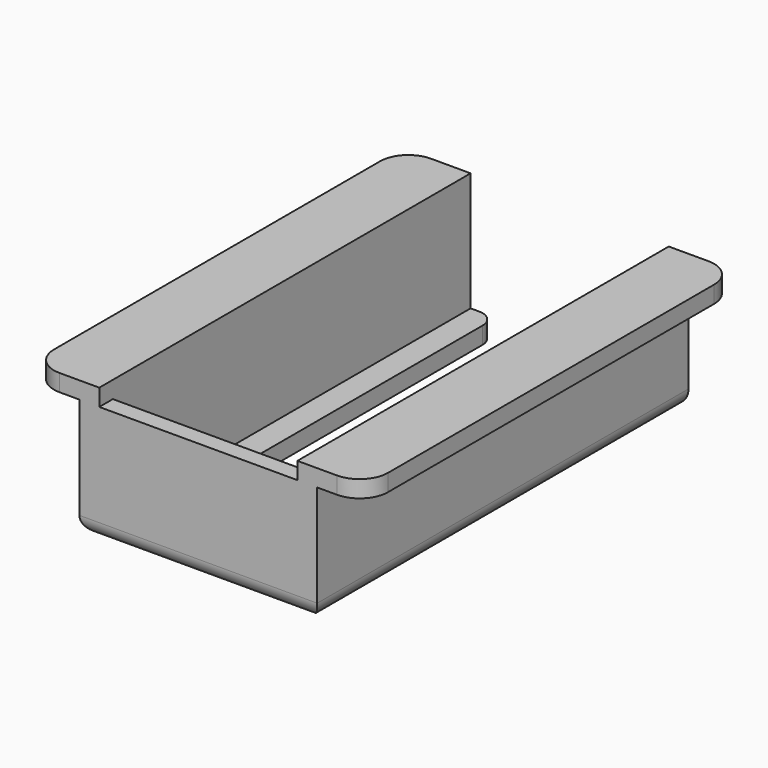
from build123d import *

# Parameters (mm, degrees)
F0_W     = 42
F0_H     = 82
F1_DEPTH = 3
F2_W     = 42
F2_H     = 82
F2_W_2   = 35
F2_H_2   = 76
F3_DEPTH = 18
F4_W     = 12
F4_H     = 82
F5_DEPTH = 3
F7_DEPTH = 25
F8_DEPTH = 25
F9_R     = 3
F10_R    = 5


with BuildPart() as f1:
    # F0 (on Top) → F1 (new body)
    with BuildSketch(Plane.XY):
        Rectangle(F0_W, F0_H)
    extrude(amount=F1_DEPTH)

    # F2 (on face) → F3 (join)
    with BuildSketch(Plane.XY.offset(3)):
        Rectangle(F2_W, F2_H)
        Rectangle(F2_W_2, F2_H_2, mode=Mode.SUBTRACT)
    extrude(amount=F3_DEPTH)

    # F4 (on face) → F5 (join)
    with BuildSketch(Plane.XY.offset(21)):
        with Locations((-23.5, 0)):
            Rectangle(F4_W, F4_H)
        with Locations((23.5, 0)):
            Rectangle(F4_W, F4_H)
    extrude(amount=F5_DEPTH)

    # F6 (on face) → F7 (cut)
    with BuildSketch(Plane(origin=(0, 0, 0), x_dir=(1, 0, 0), z_dir=(0, 0, -1))):
        Polygon((13, 7.8317355365), (13, 33), (3.5048450809, 33), (-13, 33), (-13, 14.662142843), (-13, -41), (13, -41), align=None)
    extrude(amount=-F7_DEPTH, mode=Mode.SUBTRACT)

    # F8 (cut): faces of the model
    f8_faces = [f1.faces().sort_by_distance(p)[0] for p in [
        (15.25, 38, 12),
        (-15.25, 38, 12),
    ]]
    extrude(f8_faces, amount=-F8_DEPTH, mode=Mode.SUBTRACT)

    # F9
    f9_edges = [f1.edges().sort_by_distance(p)[0] for p in [
        (-21, 0, 0),
        (0, -41, 0),
        (21, 0, 0),
        (-13, 41, 1.5),
        (13, 41, 1.5),
    ]]
    fillet(f9_edges, radius=F9_R)

    # F10
    f10_edges = [f1.edges().sort_by_distance(p)[0] for p in [
        (29.5, -41, 22.5),
        (-29.5, -41, 22.5),
        (-29.5, 41, 22.5),
        (29.5, 41, 22.5),
    ]]
    fillet(f10_edges, radius=F10_R)


solid = f1.part
